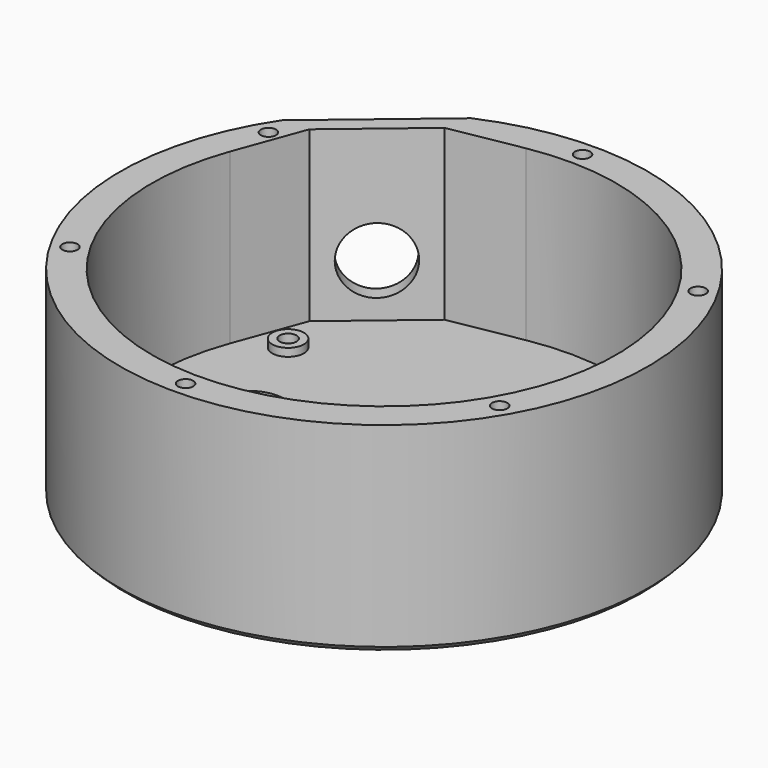
from build123d import *

# Parameters (mm, degrees)
PAD_DEPTH          = 38
POCKET_DEPTH       = 32
SKETCH002_R        = 6.25
POCKET001_DEPTH    = 6
CHAMFER_SIZE       = 1
SKETCH003_R        = 1.6
SKETCH003_R_2      = 3
POCKET002_DEPTH    = 7
SKETCH004_R        = 6.5
POCKET003_DEPTH    = 3
SKETCH005_R        = 1.45
POCKET004_DEPTH    = 5
POLARPATTERN_COUNT = 6
SKETCH006_R        = 3
SKETCH006_R_2      = 1.6
PAD001_DEPTH       = 1.5


with BuildPart() as part:
    # Sketch → Pad (new body)
    with BuildSketch(Plane.XY):
        with BuildLine():
            ThreePointArc((-41.5784274686, 27.7711067341), (32.1393804843, -38.3022221559), (-20.1291830613, 45.7691598053))
            Line((-41.5784274686, 27.7711067341), (-20.1291830613, 45.7691598053))
        make_face()
    extrude(amount=PAD_DEPTH)

    # Sketch001 → Pocket (cut)
    with BuildSketch(Plane.XY.offset(38)):
        with BuildLine():
            ThreePointArc((-41.314902238, 15.1353511047), (28.2826548262, -33.7059554972), (-7.7311536284, 43.3154621766))
            Line((-21.2649980047, 40.8998760372), (-7.7311536284, 43.3154621766))
            Line((-36.5858868671, 28.0441238435), (-21.2649980047, 40.8998760372))
            Line((-36.5858868671, 28.0441238435), (-41.314902238, 15.1353511047))
        make_face()
    extrude(amount=-POCKET_DEPTH, mode=Mode.SUBTRACT)

    # Sketch002 (on Face2 of Pocket) → Pocket001 (cut)
    with BuildSketch(Plane(origin=(-30.853805265, 36.7701332697, 0), x_dir=(-0.7660444431, -0.6427876097, 0), z_dir=(-0.6427876097, 0.7660444431, 0))):
        with Locations((0, 16)):
            Circle(SKETCH002_R)
    extrude(amount=-POCKET001_DEPTH, mode=Mode.SUBTRACT)

    # Chamfer
    chamfer_edges = [part.edges().sort_by_distance(p)[0] for p in [
        (32.13938, -38.302222, 0),
    ]]
    chamfer(chamfer_edges, length=CHAMFER_SIZE)

    # Sketch003 → Pocket002 (cut)
    with BuildSketch(Plane.XY.offset(6)):
        with Locations((-33.78, 19.5)):
            Circle(SKETCH003_R)
        with Locations((33.78, 19.5)):
            Circle(SKETCH003_R)
        with Locations((0, -39)):
            Circle(SKETCH003_R)
        with Locations((-25.5, 0)):
            Circle(SKETCH003_R_2)
        with Locations((25.5, 0)):
            Circle(SKETCH003_R_2)
        Polygon((-18, -6), (18, -6), (18, -17), (2, -17), (2, -22), (-2, -22), (-2, -17), (-18, -17), align=None)
    extrude(amount=-POCKET002_DEPTH, mode=Mode.SUBTRACT)

    # Sketch004 → Pocket003 (cut)
    with BuildSketch(Plane.XY.offset(6)):
        with Locations((-25.5, 0)):
            Circle(SKETCH004_R)
        with Locations((25.5, 0)):
            Circle(SKETCH004_R)
    extrude(amount=-POCKET003_DEPTH, mode=Mode.SUBTRACT)

    # Sketch005 (on Face4 of Pocket003) → Pocket004 (cut)
    with BuildSketch(Plane.XY.offset(38)):
        with Locations((0, 47)):
            Circle(SKETCH005_R)
    pocket004 = extrude(amount=-POCKET004_DEPTH, mode=Mode.SUBTRACT)

    # PolarPattern: Pocket004 ×6 about axis
    polarpattern_axis = Axis((0, 0, 38), (0, 0, 1))
    for i in range(1, POLARPATTERN_COUNT):
        add(pocket004.rotate(polarpattern_axis, i * 360 / POLARPATTERN_COUNT), mode=Mode.SUBTRACT)

    # Sketch006 (on Face34 of PolarPattern) → Pad001 (join)
    with BuildSketch(Plane.XY.offset(6)):
        with Locations((-33.78, 19.5)):
            Circle(SKETCH006_R)
        with Locations((-33.78, 19.5)):
            Circle(SKETCH006_R_2, mode=Mode.SUBTRACT)
        with Locations((33.78, 19.5)):
            Circle(SKETCH006_R)
        with Locations((33.78, 19.5)):
            Circle(SKETCH006_R_2, mode=Mode.SUBTRACT)
        with Locations((0, -39)):
            Circle(SKETCH006_R)
        with Locations((0, -39)):
            Circle(SKETCH006_R_2, mode=Mode.SUBTRACT)
    extrude(amount=PAD001_DEPTH)


solid = part.part
